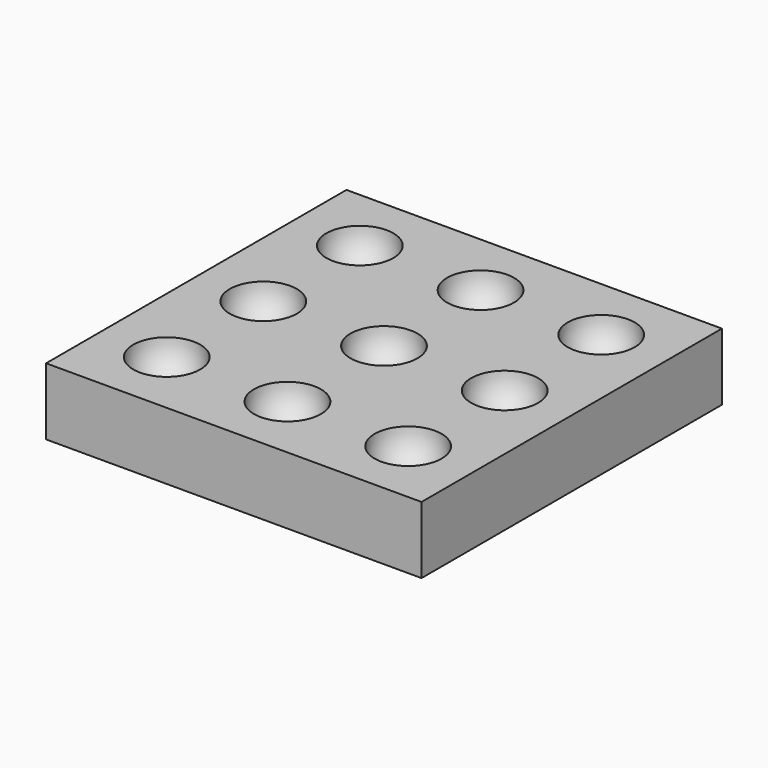
from build123d import *

# Parameters (mm, degrees)
ARRAY_X_COUNT = 3
ARRAY_X_PITCH = 18
ARRAY_Y_COUNT = 3
ARRAY_Y_PITCH = 18
BOX_W         = 56
BOX_H         = 56
BOX_DEPTH     = 10


with BuildPart() as array:
    # Sphere → Sphere (revolve)
    with BuildSketch(Plane.XZ):
        with BuildLine():
            ThreePointArc((0, -5), (5, 0), (0, 5))
            Line((0, 5), (0, -5))
        make_face()
    revolve(axis=Axis((0, 0, 0), (0, 0, 1)))

    # Array X: Array ×3


with BuildPart() as array_1:
    add(array.part)
    with Locations(*[(i * ARRAY_X_PITCH, 0, 0) for i in range(1, ARRAY_X_COUNT)]):
        add(array.part)

    # Array Y: Array ×3


with BuildPart() as array_2:
    add(array_1.part)
    with Locations(*[(0, i * ARRAY_Y_PITCH, 0) for i in range(1, ARRAY_Y_COUNT)]):
        add(array_1.part)


with BuildPart() as cut:
    # Box → Box (new body)
    with BuildSketch(Plane(origin=(-10, -10, -10), x_dir=(1, 0, 0), z_dir=(0, 0, 1))):
        with Locations((28, 28)):
            Rectangle(BOX_W, BOX_H)
    extrude(amount=BOX_DEPTH)

    # Cut: cut Array
    add(array_2.part, mode=Mode.SUBTRACT)


solid = cut.part
